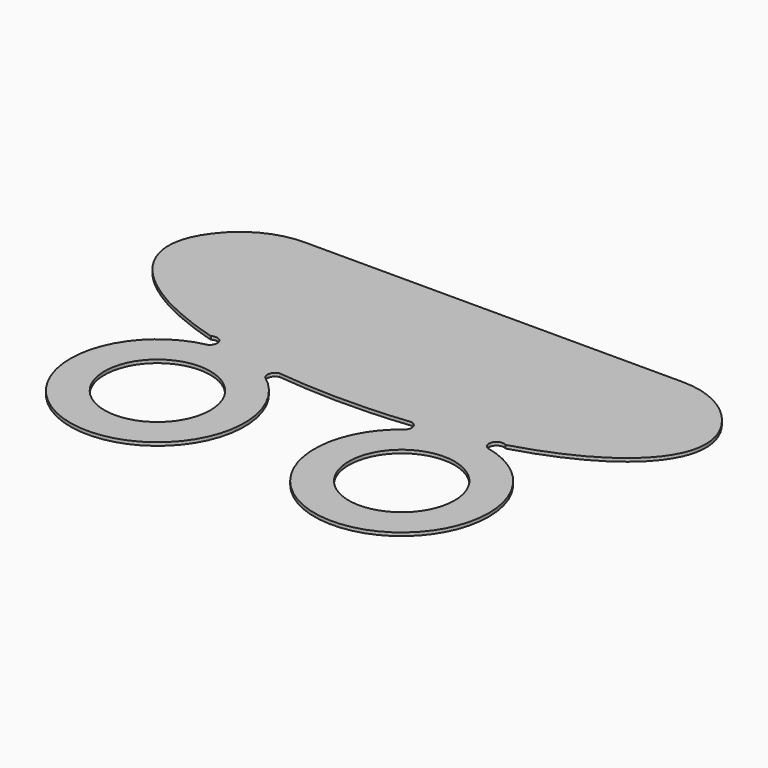
from build123d import *

# Parameters (mm, degrees)
F0_R     = 3.25
F1_DEPTH = 0.2
F2_R     = 5


with BuildPart() as f1:
    # F0 (on Top) → F1 (new body)
    with BuildSketch(Plane.XY):
        with BuildLine():
            Line((13.2, 4.35), (-13.2, 4.35))
            add(Edge.make_bspline(
                [(-13.2, 4.35), (-23.742245443, -1.826265007), (-9.0518697652, -6.0616245888)],
                knots=[2.4980915448, 2.4980915448, 2.4980915448, 4.1317023268, 4.1317023268, 4.1317023268], degree=2, weights=[1, 0.6845534471, 1]))
            ThreePointArc((-9.0518697652, -6.0616245888), (-8.4029897808, -6.223205615), (-8.5959492747, -6.8634557973))
            ThreePointArc((-8.5959492747, -6.8634557973), (-8.6337724298, -17.3284854478), (-4.3334419614, -7.7877604208))
            ThreePointArc((-4.3334419614, -7.7877604208), (-4.4024398832, -7.3340124423), (-4.0613260941, -7.0269467748))
            add(Edge.make_bspline(
                [(-4.0613260941, -7.0269467748), (0, -7.4801335039), (4.0613260941, -7.0269467748)],
                knots=[4.4636922706, 4.4636922706, 4.4636922706, 4.9610856902, 4.9610856902, 4.9610856902], degree=2, weights=[1, 0.9692340379, 1]))
            ThreePointArc((4.0613260941, -7.0269467748), (4.4024398832, -7.3340124423), (4.3334419614, -7.7877604208))
            ThreePointArc((4.3334419614, -7.7877604208), (8.6337724298, -17.3284854478), (8.5959492747, -6.8634557973))
            ThreePointArc((8.5959492747, -6.8634557973), (8.4029897808, -6.223205615), (9.0518697652, -6.0616245888))
            add(Edge.make_bspline(
                [(9.0518697652, -6.0616245888), (23.742245443, -1.826265007), (13.2, 4.35)],
                knots=[5.2930756339, 5.2930756339, 5.2930756339, 6.926686416, 6.926686416, 6.926686416], degree=2, weights=[1, 0.6845534471, 1]))
        make_face()
        with Locations((-7.5, -12.1)):
            Circle(F0_R, mode=Mode.SUBTRACT)
        with Locations((7.5, -12.1)):
            Circle(F0_R, mode=Mode.SUBTRACT)
    extrude(amount=F1_DEPTH)

    # F2
    f2_edges = [f1.edges().sort_by_distance(p)[0] for p in [
        (13.2, 4.35, 0.1),
        (-13.2, 4.35, 0.1),
    ]]
    fillet(f2_edges, radius=F2_R)


solid = f1.part
